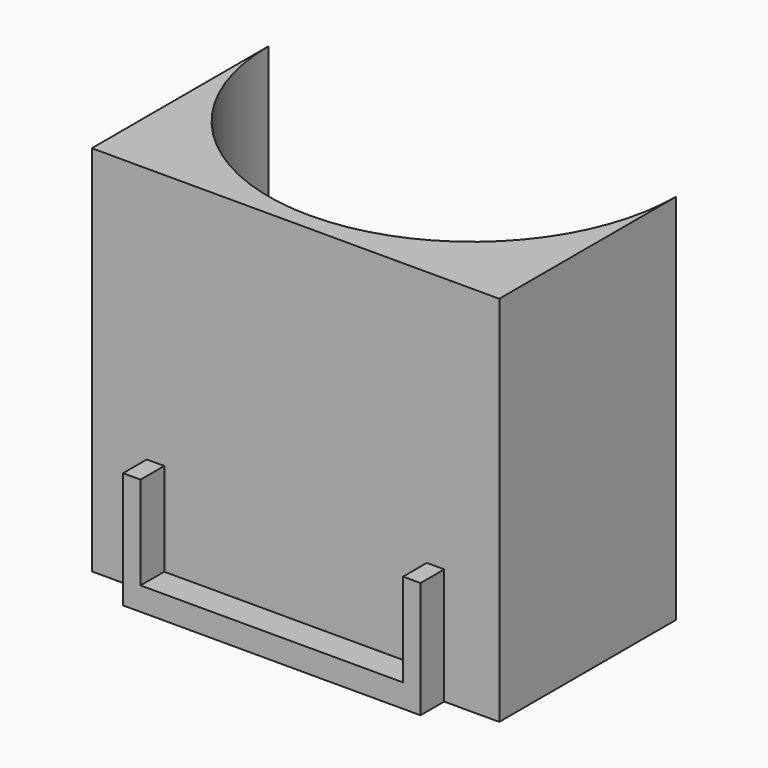
from build123d import *

# Parameters (mm, degrees)
F1_DEPTH = 64
F2_DEPTH = 4
F0_W     = 3
F0_H     = 5.1
F3_DEPTH = 20


with BuildPart() as f1:
    # F0 (on Top) → F1 (new body)
    with BuildSketch(Plane.XY):
        with BuildLine():
            ThreePointArc((0, -35), (-24.748737, -24.748737), (-35, 0))
            Line((-35, 0), (-35, -38))
            Line((-35, -38), (-25.55, -38))
            Line((-25.55, -38), (-22.55, -38))
            Line((-22.55, -38), (0, -38))
            Line((0, -38), (0, -35))
        make_face()
        with BuildLine():
            Line((35, -38), (35, 0))
            ThreePointArc((35, 0), (24.748737, -24.748737), (0, -35))
            Line((0, -35), (0, -38))
            Line((0, -38), (22.55, -38))
            Line((22.55, -38), (25.55, -38))
            Line((25.55, -38), (35, -38))
        make_face()
    extrude(amount=F1_DEPTH)

    # F0 (on Top) → F2 (join)
    with BuildSketch(Plane.XY):
        Polygon((22.55, -38), (0, -38), (-22.55, -38), (-22.55, -43.1), (22.55, -43.1), align=None)
    extrude(amount=F2_DEPTH)

    # F0 (on Top) → F3 (join)
    with BuildSketch(Plane.XY):
        with Locations((-24.05, -40.55)):
            Rectangle(F0_W, F0_H)
        with Locations((24.05, -40.55)):
            Rectangle(F0_W, F0_H)
    extrude(amount=F3_DEPTH)


solid = f1.part
